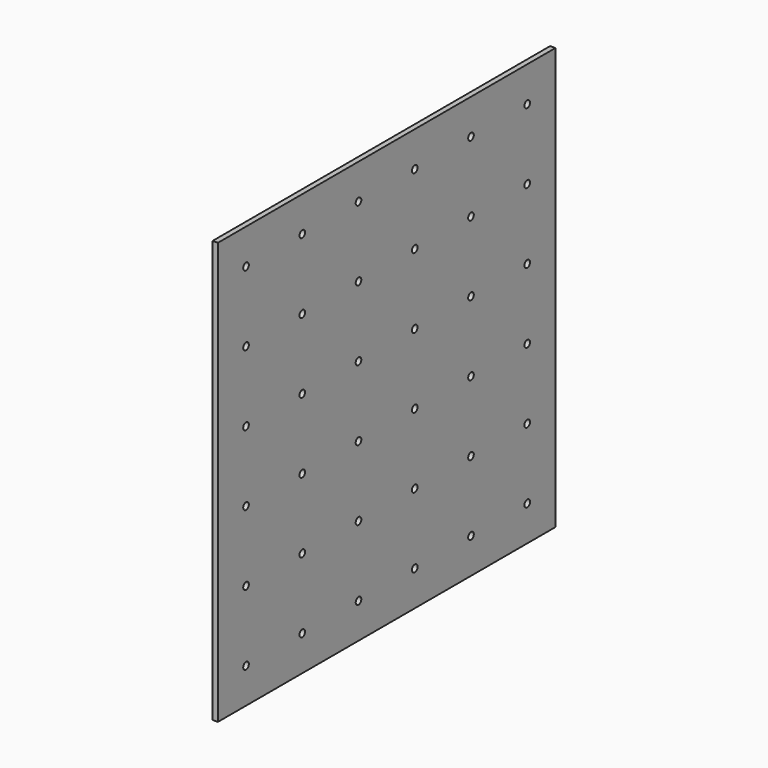
from build123d import *

# Parameters (mm, degrees)
F0_W          = 1525
F0_H          = 1525
F1_DEPTH      = 19.05
F2_R          = 12.7
F3_DEPTH      = 381
F3_DEPTH_BACK = 25.4


with BuildPart() as f1:
    # F0 (on Right) → F1 (new body)
    with BuildSketch(Plane.YZ):
        with Locations((762.5, 762.5)):
            Rectangle(F0_W, F0_H)
    extrude(amount=F1_DEPTH)

    # F2 (on face) → F3 (cut, two sides)
    with BuildSketch(Plane(origin=(0, 0, 0), x_dir=(0, -1, 0), z_dir=(-1, 0, 0))) as f3_sk:
        with Locations((-1397.916667, 1397.916667)):
            Circle(F2_R)
        with Locations((-1397.916667, 1143.75)):
            Circle(F2_R)
        with Locations((-1397.916667, 889.583333)):
            Circle(F2_R)
        with Locations((-1397.916667, 635.416667)):
            Circle(F2_R)
        with Locations((-1397.916667, 381.25)):
            Circle(F2_R)
        with Locations((-1397.916667, 127.083333)):
            Circle(F2_R)
        with Locations((-1143.75, 1397.916667)):
            Circle(F2_R)
        with Locations((-1143.75, 1143.75)):
            Circle(F2_R)
        with Locations((-1143.75, 889.583333)):
            Circle(F2_R)
        with Locations((-1143.75, 635.416667)):
            Circle(F2_R)
        with Locations((-1143.75, 381.25)):
            Circle(F2_R)
        with Locations((-1143.75, 127.083333)):
            Circle(F2_R)
        with Locations((-889.583333, 1397.916667)):
            Circle(F2_R)
        with Locations((-889.583333, 1143.75)):
            Circle(F2_R)
        with Locations((-889.583333, 889.583333)):
            Circle(F2_R)
        with Locations((-889.583333, 635.416667)):
            Circle(F2_R)
        with Locations((-889.583333, 381.25)):
            Circle(F2_R)
        with Locations((-889.583333, 127.083333)):
            Circle(F2_R)
        with Locations((-635.416667, 1397.916667)):
            Circle(F2_R)
        with Locations((-635.416667, 1143.75)):
            Circle(F2_R)
        with Locations((-635.416667, 889.583333)):
            Circle(F2_R)
        with Locations((-635.416667, 635.416667)):
            Circle(F2_R)
        with Locations((-635.416667, 381.25)):
            Circle(F2_R)
        with Locations((-635.416667, 127.083333)):
            Circle(F2_R)
        with Locations((-381.25, 1397.916667)):
            Circle(F2_R)
        with Locations((-381.25, 1143.75)):
            Circle(F2_R)
        with Locations((-381.25, 889.583333)):
            Circle(F2_R)
        with Locations((-381.25, 635.416667)):
            Circle(F2_R)
        with Locations((-381.25, 381.25)):
            Circle(F2_R)
        with Locations((-381.25, 127.083333)):
            Circle(F2_R)
        with Locations((-127.083333, 1397.916667)):
            Circle(F2_R)
        with Locations((-127.083333, 1143.75)):
            Circle(F2_R)
        with Locations((-127.083333, 889.583333)):
            Circle(F2_R)
        with Locations((-127.083333, 635.416667)):
            Circle(F2_R)
        with Locations((-127.083333, 381.25)):
            Circle(F2_R)
        with Locations((-127.083333, 127.083333)):
            Circle(F2_R)
    extrude(amount=F3_DEPTH, mode=Mode.SUBTRACT)
    extrude(f3_sk.sketch, amount=-F3_DEPTH_BACK, mode=Mode.SUBTRACT)


solid = f1.part
